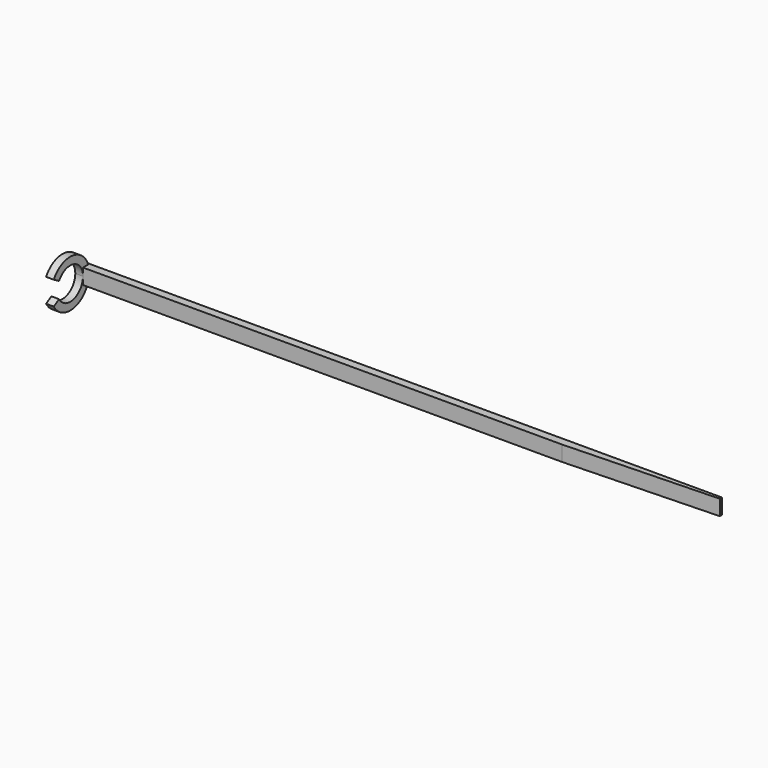
from build123d import *

# Parameters (mm, degrees)
F1_DEPTH = 3.048
F3_DEPTH = 1.524


with BuildPart() as f1:
    # F0 (on Top) → F1 (new body)
    with BuildSketch(Plane.XY):
        Polygon((63.481114, 0.8001), (-63.5, 0.8001), (-63.5, -0.8001), (33.02, -0.8001), (63.5, 0.254), align=None)
    extrude(amount=F1_DEPTH)

    # F2 (on face) → F3 (join)
    with BuildSketch(Plane(origin=(-63.5, 0, 0), x_dir=(0, -1, 0), z_dir=(-1, 0, 0))):
        with BuildLine():
            ThreePointArc((0.8001, 1.524), (3.15335, 4.590814), (6.724731, 3.1115))
            Line((6.724731, 3.1115), (8.044553, 3.8735))
            ThreePointArc((8.044553, 3.8735), (3.521645, 6.20107), (-0.4699, 3.048))
            Line((-0.4699, 3.048), (0.8001, 3.048))
            Line((0.8001, 3.048), (0.8001, 1.524))
        make_face()
        with BuildLine():
            ThreePointArc((6.724731, -0.0635), (3.15335, -1.542814), (0.8001, 1.524))
            Line((0.8001, 1.524), (0.8001, 0))
            Line((0.8001, 0), (-0.4699, 0))
            ThreePointArc((-0.4699, 0), (3.521645, -3.15307), (8.044553, -0.8255))
            Line((8.044553, -0.8255), (6.724731, -0.0635))
        make_face()
    extrude(amount=-F3_DEPTH)


solid = f1.part
